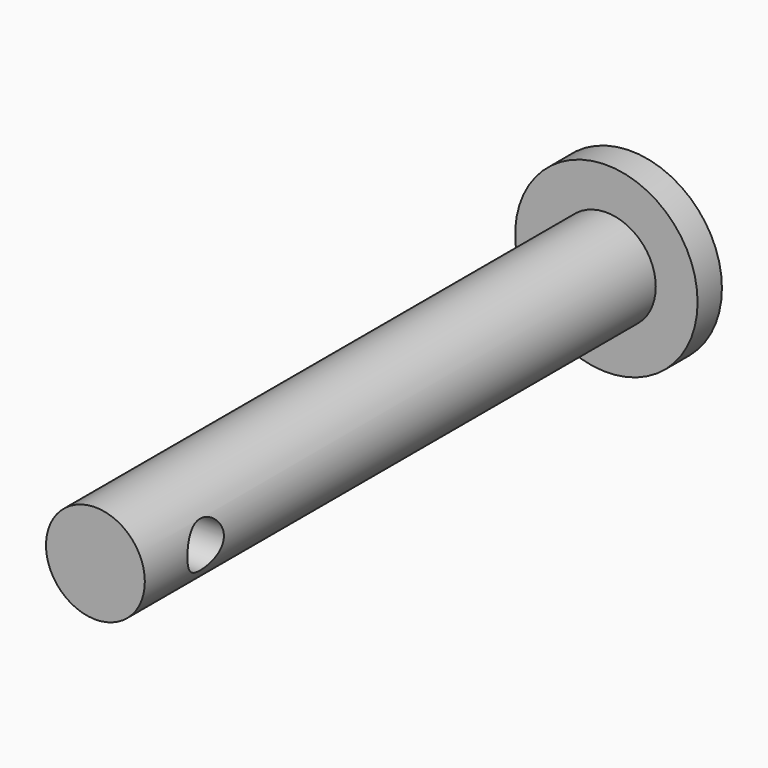
from build123d import *

# Parameters (mm, degrees)
F0_R     = 3.25
F1_DEPTH = 44
F0_R_2   = 6
F2_DEPTH = 2
F3_R     = 1.5
F4_DEPTH = 5


with BuildPart() as f1:
    # F0 (on Front) → F1 (new body)
    with BuildSketch(Plane.XZ):
        Circle(F0_R)
    extrude(amount=F1_DEPTH)

    # F0 (on Front) → F2 (join)
    with BuildSketch(Plane.XZ):
        Circle(F0_R_2)
        Circle(F0_R, mode=Mode.SUBTRACT)
    extrude(amount=F2_DEPTH)

    # F3 (on Right) → F4 (cut, symmetric)
    with BuildSketch(Plane.YZ):
        with Locations((-39, 0)):
            Circle(F3_R)
    extrude(amount=F4_DEPTH, both=True, mode=Mode.SUBTRACT)


solid = f1.part
